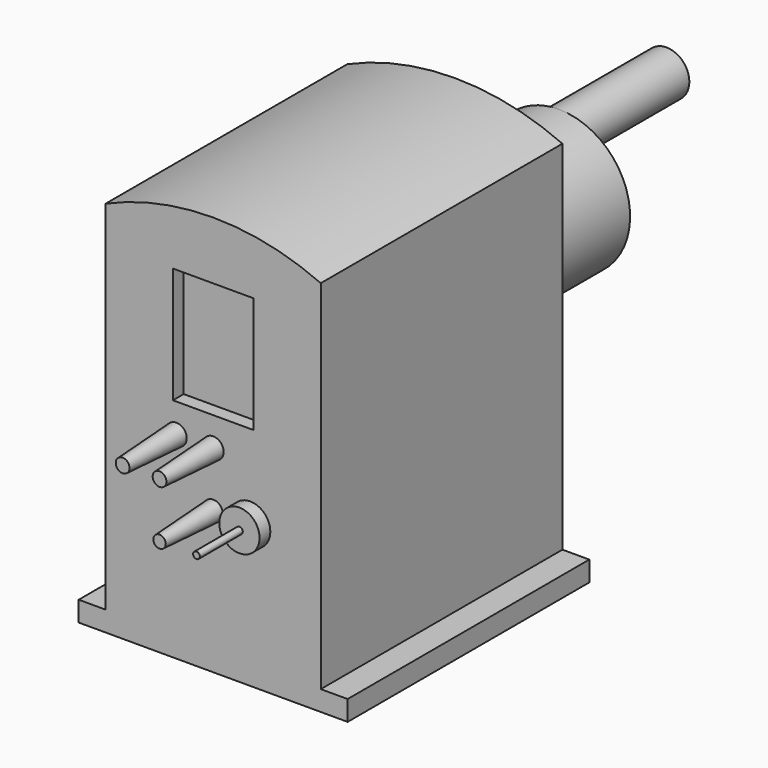
from build123d import *

# Parameters (mm, degrees)
F0_R      = 7.75
F0_R_2    = 7.25
F0_R_3    = 15
F0_W      = 60
F0_H      = 86.4
F1_DEPTH  = 225
F2_DEPTH  = 50
F2_TAPER  = 3
F3_DEPTH  = 50
F3_TAPER  = 3
F4_DEPTH  = 10
F5_DEPTH  = 10
F6_R      = 2.5
F7_DEPTH  = 40
F8_R      = 53
F9_DEPTH  = 97
F10_R     = 16.9998611114
F11_DEPTH = 100


with BuildPart() as f1:
    # F0 (on Front) → F1 (new body)
    with BuildSketch(Plane.XZ):
        Polygon((-72.7, -34.5117315553), (-72.7, -49.5117315553), (127.6, -49.5117315553), (127.6, -34.5117315553), (107.6, -34.5117315553), (107.6, 231.6882684447), (-52.7, 231.6882684447), (-52.7, -34.5117315553), align=None)
        with Locations((0, 97.4882684447)):
            Circle(F0_R, mode=Mode.SUBTRACT)
        with Locations((27.5, 56.4882684447)):
            Circle(F0_R_2, mode=Mode.SUBTRACT)
        with Locations((55, 56.4882684447)):
            Circle(F0_R_3, mode=Mode.SUBTRACT)
        with Locations((27.5, 97.4882684447)):
            Circle(F0_R, mode=Mode.SUBTRACT)
        with Locations((27.5, 162.2882684447)):
            Rectangle(F0_W, F0_H, mode=Mode.SUBTRACT)
        with BuildLine():
            ThreePointArc((107.6, 231.6882684447), (27.45, 248.6882684447), (-52.7, 231.6882684447))
            Line((-52.7, 231.6882684447), (107.6, 231.6882684447))
        make_face()
        with Locations((27.5, 162.2882684447)):
            Rectangle(F0_W, F0_H)
        with Locations((0, 97.4882684447)):
            Circle(F0_R)
        with Locations((27.5, 97.4882684447)):
            Circle(F0_R)
        with Locations((55, 56.4882684447)):
            Circle(F0_R_3)
        with Locations((27.5, 56.4882684447)):
            Circle(F0_R_2)
    extrude(amount=-F1_DEPTH)

    # F0 (on Front) → F2 (join)
    with BuildSketch(Plane.XZ):
        with Locations((0, 97.4882684447)):
            Circle(F0_R)
        with Locations((27.5, 97.4882684447)):
            Circle(F0_R)
    extrude(amount=F2_DEPTH, taper=F2_TAPER)

    # F0 (on Front) → F3 (join)
    with BuildSketch(Plane.XZ):
        with Locations((27.5, 56.4882684447)):
            Circle(F0_R_2)
    extrude(amount=F3_DEPTH, taper=F3_TAPER)

    # F0 (on Front) → F4 (cut)
    with BuildSketch(Plane.XZ):
        with Locations((27.5, 162.2882684447)):
            Rectangle(F0_W, F0_H)
    extrude(amount=-F4_DEPTH, mode=Mode.SUBTRACT)

    # F0 (on Front) → F5 (join)
    with BuildSketch(Plane.XZ):
        with Locations((55, 56.4882684447)):
            Circle(F0_R_3)
    extrude(amount=F5_DEPTH)

    # F6 (on face) → F7 (join)
    with BuildSketch(Plane.XZ.offset(10)):
        with Locations((55, 56.4882684447)):
            Circle(F6_R)
    extrude(amount=F7_DEPTH)

    # F8 (on face) → F9 (join)
    with BuildSketch(Plane(origin=(0, 225, 0), x_dir=(-1, 0, 0), z_dir=(0, 1, 0))):
        with Locations((-27.4, 135.6882684447)):
            Circle(F8_R)
    extrude(amount=F9_DEPTH)

    # F10 (on face) → F11 (join)
    with BuildSketch(Plane(origin=(0, 322, 0), x_dir=(-1, 0, 0), z_dir=(0, 1, 0))):
        with Locations((-27.5, 171.6882684447)):
            Circle(F10_R)
    extrude(amount=F11_DEPTH)


solid = f1.part
